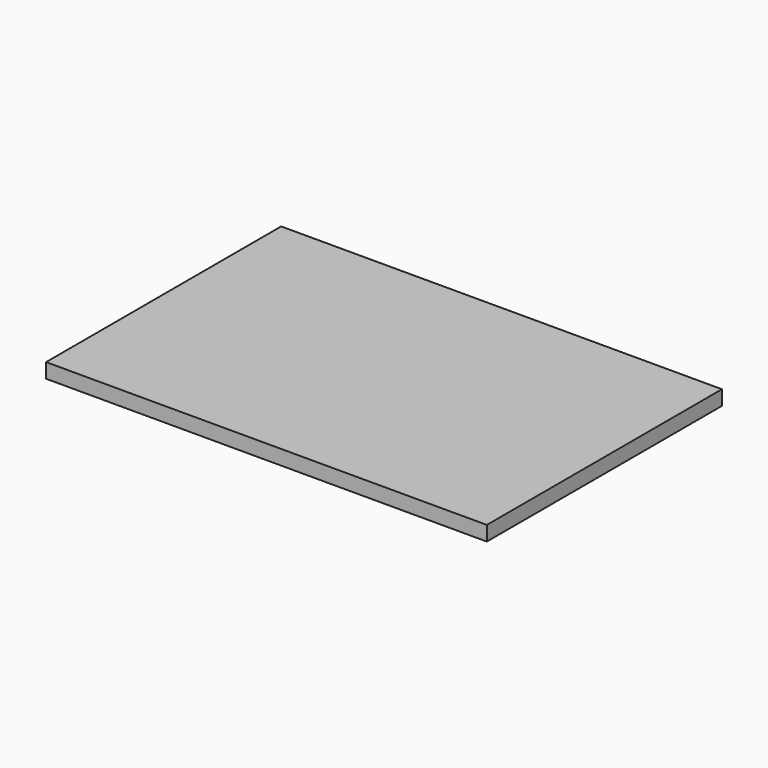
from build123d import *

# Parameters (mm, degrees)
F0_W     = 300
F0_H     = 200
F0_W_2   = 230
F0_H_2   = 160
F1_DEPTH = 10


with BuildPart() as f1:
    # F0 (on Top) → F1 (new body)
    with BuildSketch(Plane.XY):
        Rectangle(F0_W, F0_H)
        Rectangle(F0_W_2, F0_H_2, mode=Mode.SUBTRACT)
        Rectangle(F0_W_2, F0_H_2)
    extrude(amount=F1_DEPTH)


solid = f1.part
